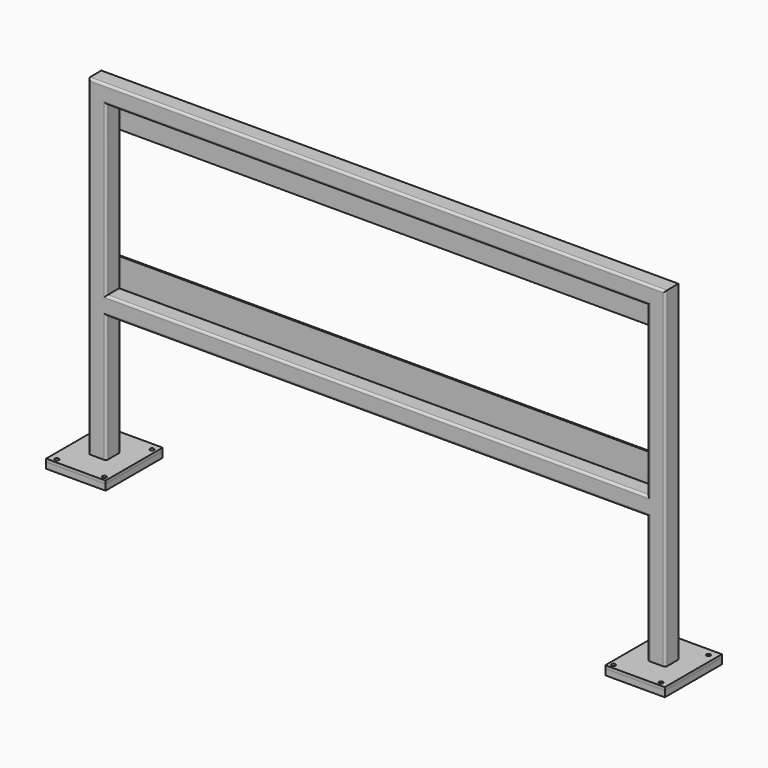
from build123d import *

# Parameters (mm, degrees)
F0_W      = 254
F0_H      = 304.8
F1_DEPTH  = 25.4
F3_D      = 13.49248
F4_W      = 254
F4_H      = 304.8
F4_R      = 8.73125
F5_DEPTH  = 12.7
F10_W     = 57.15
F10_H     = 6.35
F12_W     = 2311.4
F12_H     = 120.65
F13_DEPTH = 6.35


with BuildPart() as f1:
    # F0 (on Top) → F1 (new body)
    with BuildSketch(Plane.XY):
        with Locations((-1193.8, 0)):
            Rectangle(F0_W, F0_H)
    extrude(amount=F1_DEPTH)

    # F3 (through all)
    with Locations(Plane.XY.offset(25.4)):
        with Locations((-1289.8218793597, 120.3062552316), (-1086.6218793597, 120.3062552316), (-1289.8218793597, -133.6937447684), (-1086.6218793597, -133.6937447684)):
            Hole(F3_D / 2)


with BuildPart() as f5:
    # F4 (on face) → F5 (new body)
    with BuildSketch(Plane.XY.offset(25.4)):
        with Locations((-1193.8, 0)):
            Rectangle(F4_W, F4_H)
        with Locations((-1289.8218793597, -133.6937447684)):
            Circle(F4_R, mode=Mode.SUBTRACT)
        with Locations((-1086.6218793597, -133.6937447684)):
            Circle(F4_R, mode=Mode.SUBTRACT)
        with Locations((-1289.8218793597, 120.3062552316)):
            Circle(F4_R, mode=Mode.SUBTRACT)
        with Locations((-1086.6218793597, 120.3062552316)):
            Circle(F4_R, mode=Mode.SUBTRACT)
    extrude(amount=F5_DEPTH)


with BuildPart() as f6_1:
    # F6: instance of F5
    add(f5.part.mirror(Plane.YZ))


with BuildPart() as f6_2:
    # F6: instance of F1
    add(f1.part.mirror(Plane.YZ))


with BuildPart() as f9:
    # F9: sweep along a path in F7
    with BuildLine(Plane.XZ) as f9_path:
        Line((-1193.8, 38.1), (-1193.8, 1412.875))
        Line((-1193.8, 1412.875), (1193.8, 1412.875))
        Line((1193.8, 1412.875), (1193.8, 38.1))
    # F8 (on face) → F9 (sweep)
    with BuildSketch(Plane.XY.offset(38.1)):
        with BuildLine():
            Line((-1165.225, 38.1), (-1222.375, 38.1))
            ThreePointArc((-1222.375, 38.1), (-1229.1101920908, 35.3101920908), (-1231.9, 28.575))
            Line((-1231.9, 28.575), (-1231.9, -28.575))
            ThreePointArc((-1231.9, -28.575), (-1229.1101920908, -35.3101920908), (-1222.375, -38.1))
            Line((-1222.375, -38.1), (-1165.225, -38.1))
            ThreePointArc((-1165.225, -38.1), (-1158.4898079092, -35.3101920908), (-1155.7, -28.575))
            Line((-1155.7, -28.575), (-1155.7, 28.575))
            ThreePointArc((-1155.7, 28.575), (-1158.4898079092, 35.3101920908), (-1165.225, 38.1))
        make_face()
        with BuildLine():
            ThreePointArc((-1225.55, 28.575), (-1224.6200640303, 30.8200640303), (-1222.375, 31.75))
            Line((-1222.375, 31.75), (-1165.225, 31.75))
            ThreePointArc((-1165.225, 31.75), (-1162.9799359697, 30.8200640303), (-1162.05, 28.575))
            Line((-1162.05, 28.575), (-1162.05, -28.575))
            ThreePointArc((-1162.05, -28.575), (-1162.9799359697, -30.8200640303), (-1165.225, -31.75))
            Line((-1165.225, -31.75), (-1222.375, -31.75))
            ThreePointArc((-1222.375, -31.75), (-1224.6200640303, -30.8200640303), (-1225.55, -28.575))
            Line((-1225.55, -28.575), (-1225.55, 28.575))
        make_face(mode=Mode.SUBTRACT)
    sweep(path=f9_path.line, transition=Transition.RIGHT)

    # F11: sweep along a path in F7
    with BuildLine(Plane.XZ) as f11_path:
        Line((1193.8, 581.025), (-1193.8, 581.025))
    # F10 (on face) → F11 (sweep)
    with BuildSketch(Plane.YZ.offset(-1155.7)):
        with Locations((0, 584.2)):
            Rectangle(F10_W, F10_H)
        with BuildLine():
            Line((-28.575, 650.875), (-28.575, 657.225))
            ThreePointArc((-28.575, 657.225), (-35.3101920908, 654.4351920908), (-38.1, 647.7))
            Line((-38.1, 647.7), (-38.1, 590.55))
            ThreePointArc((-38.1, 590.55), (-35.3101920908, 583.8148079092), (-28.575, 581.025))
            Line((-28.575, 581.025), (-28.575, 587.375))
            ThreePointArc((-28.575, 587.375), (-30.8200640303, 588.3049359697), (-31.75, 590.55))
            Line((-31.75, 590.55), (-31.75, 647.7))
            ThreePointArc((-31.75, 647.7), (-30.8200640303, 649.9450640303), (-28.575, 650.875))
        make_face()
        with Locations((0, 654.05)):
            Rectangle(F10_W, F10_H)
        with BuildLine():
            ThreePointArc((38.1, 647.7), (35.3101920908, 654.4351920908), (28.575, 657.225))
            Line((28.575, 657.225), (28.575, 650.875))
            ThreePointArc((28.575, 650.875), (30.8200640303, 649.9450640303), (31.75, 647.7))
            Line((31.75, 647.7), (31.75, 590.55))
            ThreePointArc((31.75, 590.55), (30.8200640303, 588.3049359697), (28.575, 587.375))
            Line((28.575, 587.375), (28.575, 581.025))
            ThreePointArc((28.575, 581.025), (35.3101920908, 583.8148079092), (38.1, 590.55))
            Line((38.1, 590.55), (38.1, 647.7))
        make_face()
    sweep(path=f11_path.line)


with BuildPart() as f13:
    # F12 (on face) → F13 (new body)
    with BuildSketch(Plane(origin=(0, 38.1, 0), x_dir=(-1, 0, 0), z_dir=(0, 1, 0))):
        with Locations((0, 1314.45)):
            Rectangle(F12_W, F12_H)
    extrude(amount=-F13_DEPTH)


with BuildPart() as f13b:
    # F12 (on face) → F13, piece 2 (new body)
    with BuildSketch(Plane(origin=(0, 38.1, 0), x_dir=(-1, 0, 0), z_dir=(0, 1, 0))):
        with Locations((0, 717.55)):
            Rectangle(F12_W, F12_H)
    extrude(amount=-F13_DEPTH)


solid = Compound([f1.part, f5.part, f6_1.part, f6_2.part, f9.part, f13.part, f13b.part])
